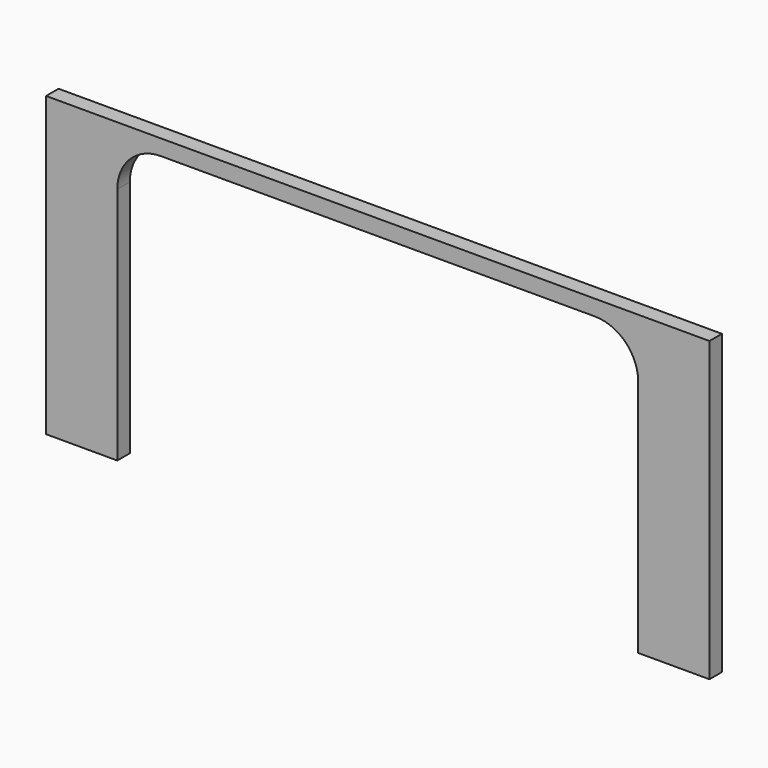
from build123d import *

# Parameters (mm, degrees)
F1_DEPTH = 18


with BuildPart() as f1:
    # F0 (on Front) → F1 (new body)
    with BuildSketch(Plane.XZ):
        with BuildLine():
            Line((0, 343), (0, 0))
            Line((0, 0), (82, 0))
            Line((82, 0), (82, 275))
            ThreePointArc((82, 275), (96.644661, 310.355339), (132, 325))
            Line((132, 325), (632, 325))
            ThreePointArc((632, 325), (667.355339, 310.355339), (682, 275))
            Line((682, 275), (682, 0))
            Line((682, 0), (764, 0))
            Line((764, 0), (764, 343))
            Line((764, 343), (0, 343))
        make_face()
    extrude(amount=F1_DEPTH)


solid = f1.part
